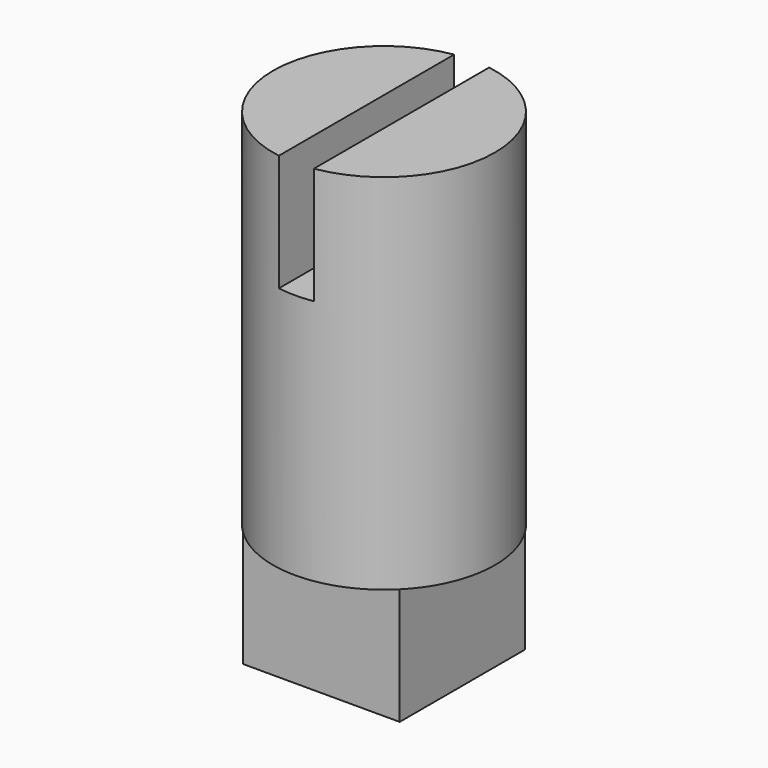
from build123d import *

# Parameters (mm, degrees)
F0_R     = 4.75
F1_DEPTH = 20.55
F4_W     = 9.6
F4_H     = 9.6
F5_DEPTH = 5
F3_W     = 1.5
F3_H     = 10.714468
F6_DEPTH = 5
F7_W     = 6.71751
F7_H     = 6.71751
F8_DEPTH = 5


with BuildPart() as f1:
    # F0 (on Top) → F1 (new body)
    with BuildSketch(Plane.XY):
        Circle(F0_R)
    extrude(amount=F1_DEPTH)

    # F4 (on Top) → F5 (cut)
    with BuildSketch(Plane.XY):
        Rectangle(F4_W, F4_H)
    extrude(amount=F5_DEPTH, mode=Mode.SUBTRACT)

    # F3 (on offset) → F6 (cut)
    with BuildSketch(Plane.XY.offset(20.55)):
        Rectangle(F3_W, F3_H)
    extrude(amount=-F6_DEPTH, mode=Mode.SUBTRACT)

    # F7 (on Top) → F8 (join)
    with BuildSketch(Plane.XY):
        Rectangle(F7_W, F7_H)
    extrude(amount=F8_DEPTH)


solid = f1.part
